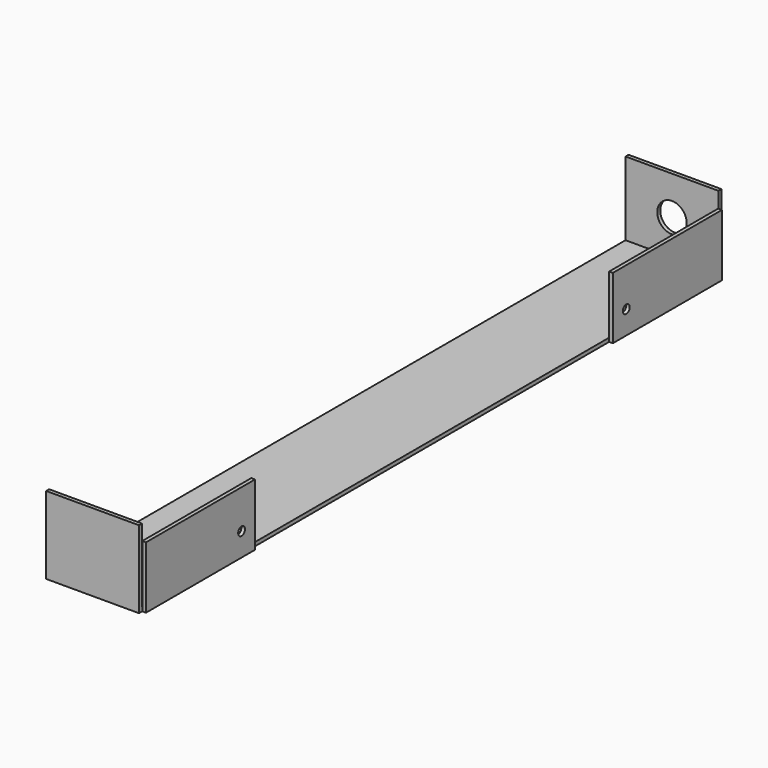
from build123d import *

# Parameters (mm, degrees)
F1_DEPTH = 15
F3_W     = 43.98863
F3_H     = 20
F4_DEPTH = 1.2
F2_R     = 4.75
F5_DEPTH = 1.21
F6_R     = 1.385
F7_DEPTH = 1.2


with BuildPart() as f1:
    # F0 (on Right) → F1 (new body, symmetric)
    with BuildSketch(Plane.YZ):
        Polygon((-116.29, 12.5), (-117.5, 12.5), (-117.5, -12.5), (117.5, -12.5), (117.5, 12.5), (116.29, 12.5), (116.29, -11.29), (0, -11.29), (-116.29, -11.29), align=None)
    extrude(amount=F1_DEPTH, both=True)

    # F3 (on face) → F4 (join)
    with BuildSketch(Plane.YZ.offset(15)):
        with Locations((-94.194315, -2.5)):
            Rectangle(F3_W, F3_H)
        with Locations((94.194315, -2.5)):
            Rectangle(F3_W, F3_H)
    extrude(amount=F4_DEPTH)

    # F2 (on face) → F5 (cut, through all)
    with BuildSketch(Plane(origin=(0, 117.5, 0), x_dir=(-1, 0, 0), z_dir=(0, 1, 0))):
        Circle(F2_R)
    extrude(amount=-F5_DEPTH, mode=Mode.SUBTRACT)

    # F6 (on face) → F7 (cut, through all)
    with BuildSketch(Plane.YZ.offset(16.2)):
        with Locations((-77.616818, -5)):
            Circle(F6_R)
        with Locations((77.616818, -5)):
            Circle(F6_R)
    extrude(amount=-F7_DEPTH, mode=Mode.SUBTRACT)


solid = f1.part
